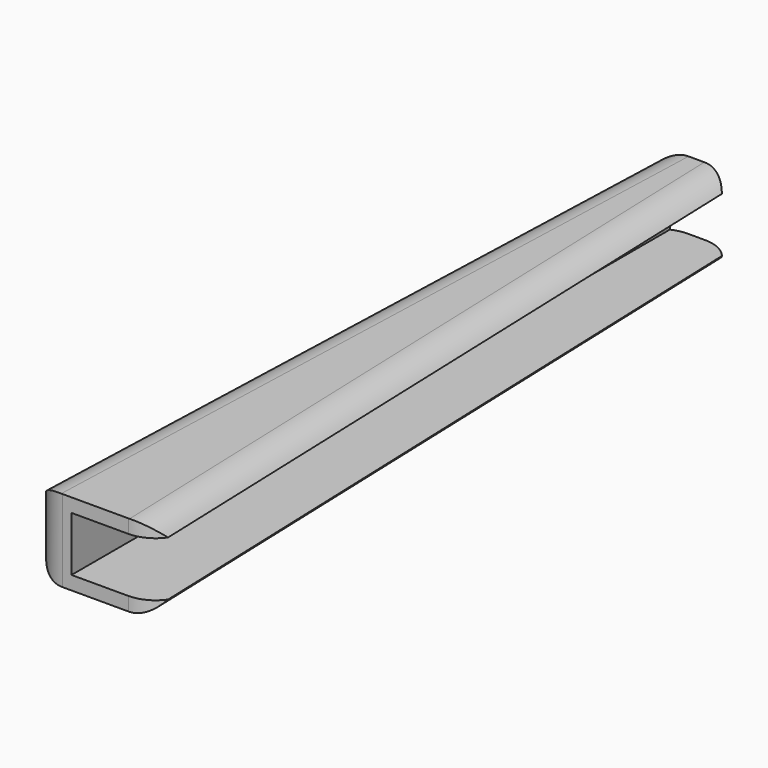
from build123d import *

# Parameters (mm, degrees)
F0_W     = 20
F0_H     = 110
F1_DEPTH = 12
F3_DEPTH = 12.001
F4_R     = 5
F5_R     = 5
F6_W     = 9.035658904
F6_H     = 8
F6_W_2   = 2.6605429637
F6_W_3   = 2.1650415125
F7_DEPTH = 110.001


with BuildPart() as f1:
    # F0 (on Top) → F1 (new body)
    with BuildSketch(Plane.XY):
        Rectangle(F0_W, F0_H)
    extrude(amount=F1_DEPTH)

    # F2 (on face) → F3 (cut, through all)
    with BuildSketch(Plane.XY.offset(12)):
        Polygon((6.1587153559, 55), (10, -55), (10, 55), align=None)
        Polygon((-10, 55), (-10, -55), (-6.1587153559, 55), align=None)
    extrude(amount=-F3_DEPTH, mode=Mode.SUBTRACT)

    # F4
    f4_edges = [f1.edges().sort_by_distance(p)[0] for p in [
        (8.079358, 0, 12),
        (10, -55, 6),
        (8.079358, 0, 0),
        (6.158715, 55, 6),
    ]]
    fillet(f4_edges, radius=F4_R)

    # F5
    f5_edges = [f1.edges().sort_by_distance(p)[0] for p in [
        (-10, -55, 6),
        (-8.079358, 0, 12),
        (-6.158715, 55, 6),
        (-8.079358, 0, 0),
    ]]
    fillet(f5_edges, radius=F5_R)

    # F6 (on face) → F7 (cut, through all)
    with BuildSketch(Plane(origin=(0, 55, 0), x_dir=(-1, 0, 0), z_dir=(0, 1, 0))):
        with Locations((-5.8481009339, 6)):
            Rectangle(F6_W, F6_H)
        with Locations((0, 6)):
            Rectangle(F6_W_2, F6_H)
        with Locations((2.4127922381, 6)):
            Rectangle(F6_W_3, F6_H)
    extrude(amount=-F7_DEPTH, mode=Mode.SUBTRACT)


solid = f1.part
